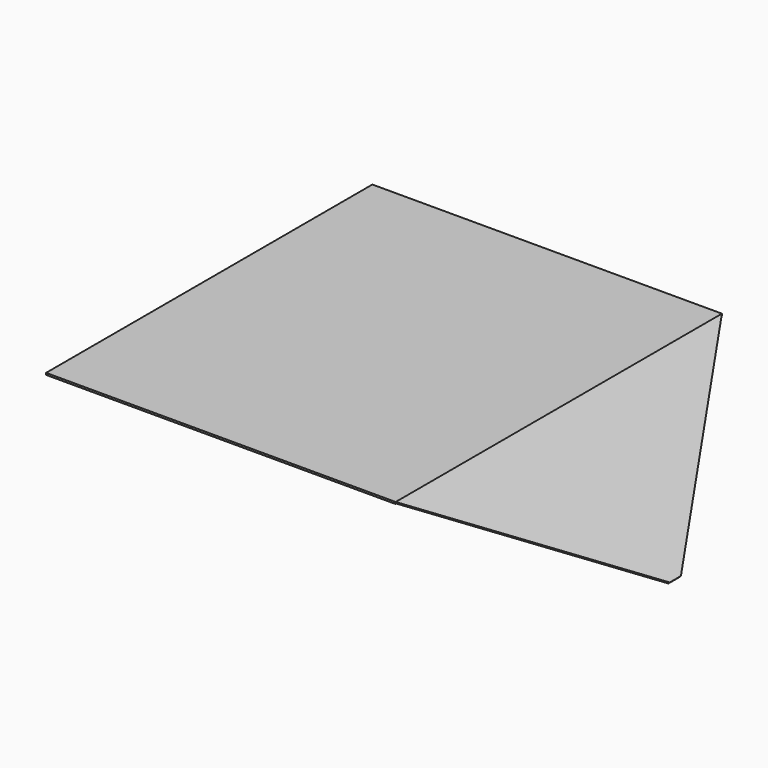
from build123d import *

# Parameters (mm, degrees)
SKETCH001_W             = 300
SKETCH001_H             = 350
PAD001_DEPTH            = 1.6
PAD002_DEPTH            = 1.6
BODY001_PLACEMENT_ANGLE = 180


with BuildPart() as part:
    # Sketch001 → Pad001 (new body)
    with BuildSketch(Plane.XY):
        Rectangle(SKETCH001_W, SKETCH001_H)
    extrude(amount=PAD001_DEPTH)

    with BuildSketch(Plane(origin=(-150, 0, 0), x_dir=(0.717792, 0, -0.696258), z_dir=(0.696258, 0, 0.717792))):
        Polygon((0, -175), (0, 175), (-139.316187, 6), (-139.316187, -6), align=None)
    pad002 = extrude(amount=PAD002_DEPTH)

    # Mirrored: Pad002 across YZ
    add(pad002.mirror(Plane.YZ))


with BuildPart() as part_1:
    # Body001 placement: moved
    add(part.part.moved(Location((0, 0, 100))).rotate(Axis((0, 0, 100), (1, 0, 0)), BODY001_PLACEMENT_ANGLE))


solid = part_1.part
